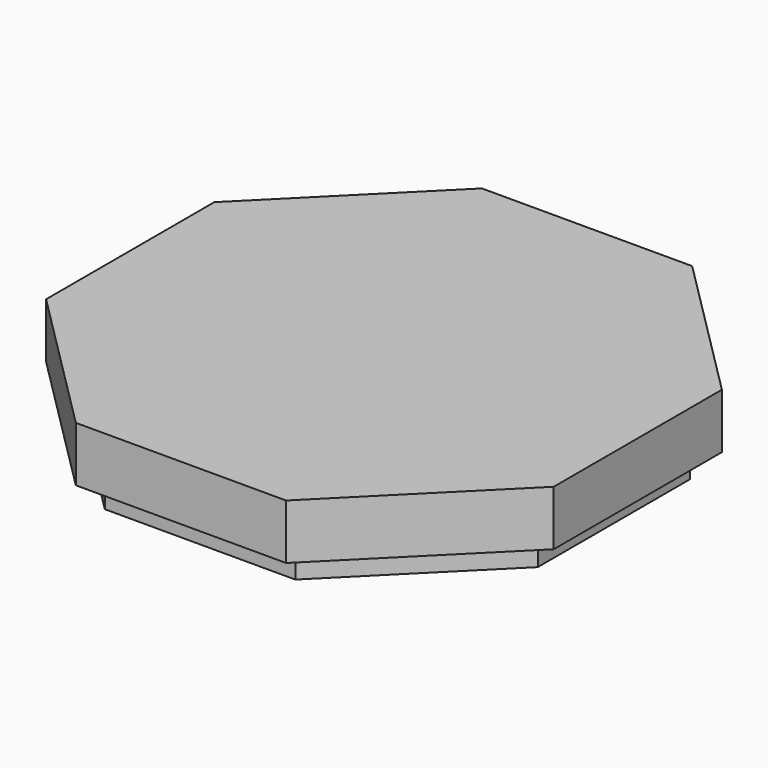
from build123d import *

# Parameters (mm, degrees)
F1_DEPTH = 12
F3_DEPTH = 6


with BuildPart() as f1:
    # F0 (on Top) → F1 (new body)
    with BuildSketch(Plane.XY):
        Polygon((54.91126, -22.484853), (54.91126, 23.373011), (22.484853, 55.799418), (-23.373011, 55.799418), (-55.799418, 23.373011), (-55.799418, -22.484853), (-23.373011, -54.91126), (22.484853, -54.91126), align=None)
        Polygon((20.330943, 50.599418), (49.71126, 21.219101), (49.71126, -20.330943), (20.330943, -49.71126), (-21.219101, -49.71126), (-50.599418, -20.330943), (-50.599418, 21.219101), (-21.219101, 50.599418), align=None, mode=Mode.SUBTRACT)
        Polygon((49.71126, -20.330943), (49.71126, 21.219101), (20.330943, 50.599418), (-21.219101, 50.599418), (-50.599418, 21.219101), (-50.599418, -20.330943), (-21.219101, -49.71126), (20.330943, -49.71126), align=None)
    extrude(amount=F1_DEPTH)

    # F2 (on face) → F3 (join)
    with BuildSketch(Plane(origin=(0, 0, 0), x_dir=(1, 0, 0), z_dir=(0, 0, -1))):
        Polygon((-21.219101, 49.71126), (-50.599418, 20.330943), (-50.599418, -21.219101), (-21.219101, -50.599418), (20.330943, -50.599418), (49.71126, -21.219101), (49.71126, 20.330943), (20.330943, 49.71126), align=None)
    extrude(amount=F3_DEPTH)


solid = f1.part
